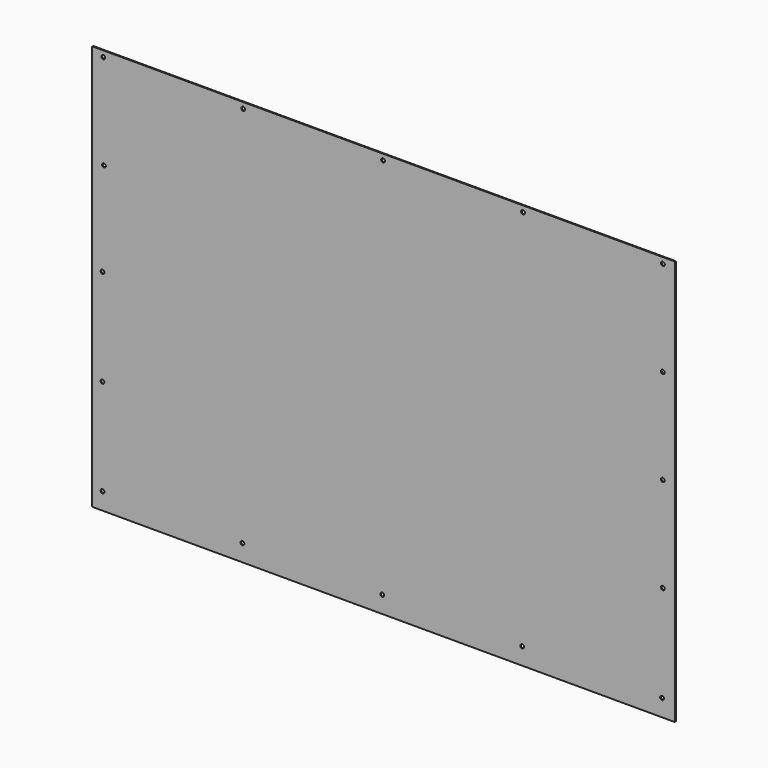
from build123d import *

# Parameters (mm, degrees)
F0_R     = 2
F1_DEPTH = 1


with BuildPart() as f1:
    # F0 (on Front) → F1 (new body)
    with BuildSketch(Plane.XZ):
        with BuildLine():
            Line((46.174372, 384.344539), (-558.825628, 384.344539))
            ThreePointArc((-558.825628, 384.344539), (-559.532735, 384.051646), (-559.825628, 383.344539))
            Line((-559.825628, 383.344539), (-559.825628, -36.655461))
            ThreePointArc((-559.825628, -36.655461), (-559.532735, -37.362568), (-558.825628, -37.655461))
            Line((-558.825628, -37.655461), (46.174372, -37.655461))
            ThreePointArc((46.174372, -37.655461), (46.881479, -37.362568), (47.174372, -36.655461))
            Line((47.174372, -36.655461), (47.174372, 383.344539))
            ThreePointArc((47.174372, 383.344539), (46.881479, 384.051646), (46.174372, 384.344539))
        make_face()
        with Locations((-548.9043, -19.935766)):
            Circle(F0_R, mode=Mode.SUBTRACT)
        with Locations((-403.3043, -19.935766)):
            Circle(F0_R, mode=Mode.SUBTRACT)
        with Locations((-257.7043, -19.935766)):
            Circle(F0_R, mode=Mode.SUBTRACT)
        with Locations((-548.9043, 80.641797)):
            Circle(F0_R, mode=Mode.SUBTRACT)
        with Locations((-112.1043, -19.935766)):
            Circle(F0_R, mode=Mode.SUBTRACT)
        with Locations((33.4957, -19.935766)):
            Circle(F0_R, mode=Mode.SUBTRACT)
        with Locations((34.311449, 81.145099)):
            Circle(F0_R, mode=Mode.SUBTRACT)
        with Locations((-548.9043, 181.219359)):
            Circle(F0_R, mode=Mode.SUBTRACT)
        with Locations((-547.399998, 279.145099)):
            Circle(F0_R, mode=Mode.SUBTRACT)
        with Locations((-548.088551, 378.145099)):
            Circle(F0_R, mode=Mode.SUBTRACT)
        with Locations((-402.488551, 378.145099)):
            Circle(F0_R, mode=Mode.SUBTRACT)
        with Locations((-256.888551, 378.145099)):
            Circle(F0_R, mode=Mode.SUBTRACT)
        with Locations((34.311449, 180.145099)):
            Circle(F0_R, mode=Mode.SUBTRACT)
        with Locations((-111.288551, 378.145099)):
            Circle(F0_R, mode=Mode.SUBTRACT)
        with Locations((34.311449, 279.145099)):
            Circle(F0_R, mode=Mode.SUBTRACT)
        with Locations((34.311449, 378.145099)):
            Circle(F0_R, mode=Mode.SUBTRACT)
    extrude(amount=F1_DEPTH)


solid = f1.part
